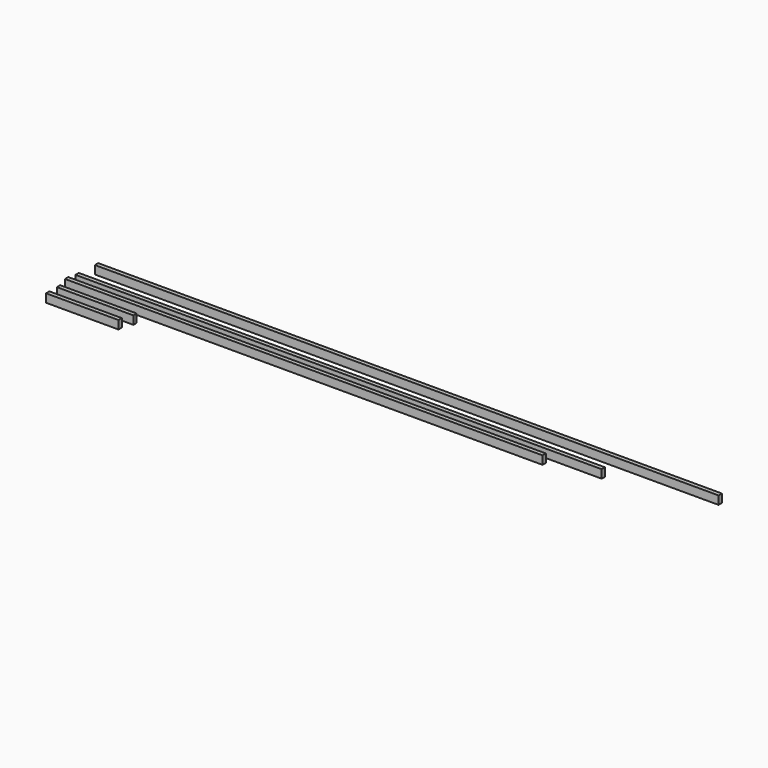
from build123d import *

# Parameters (mm, degrees)
F0_W     = 19.05
F0_H     = 38.1
F1_DEPTH = 349.25
F2_W     = 19.05
F2_H     = 38.1
F3_DEPTH = 2400.3
F4_W     = 19.05
F4_H     = 38.1
F5_DEPTH = 2844.8
F6_W     = 19.05
F6_H     = 38.1
F7_DEPTH = 2178.05
F8_W     = 19.05
F8_H     = 38.1
F9_DEPTH = 330.2


with BuildPart() as f1:
    # F0 (on Right) → F1 (new body)
    with BuildSketch(Plane.YZ):
        Rectangle(F0_W, F0_H)
    extrude(amount=F1_DEPTH)


with BuildPart() as f3:
    # F2 (on Right) → F3 (new body)
    with BuildSketch(Plane.YZ):
        with Locations((106.263376, 6.072903)):
            Rectangle(F2_W, F2_H)
    extrude(amount=F3_DEPTH)


with BuildPart() as f5:
    # F4 (on Right) → F5 (new body)
    with BuildSketch(Plane.YZ):
        with Locations((216.719954, 0.60765)):
            Rectangle(F4_W, F4_H)
    extrude(amount=F5_DEPTH)


with BuildPart() as f7:
    # F6 (on Right) → F7 (new body)
    with BuildSketch(Plane.YZ):
        with Locations((46.31238, 13.886165)):
            Rectangle(F6_W, F6_H)
    extrude(amount=F7_DEPTH)


with BuildPart() as f9:
    # F8 (on Right) → F9 (new body)
    with BuildSketch(Plane.YZ):
        with Locations((-61.117172, 0)):
            Rectangle(F8_W, F8_H)
    extrude(amount=F9_DEPTH)


solid = Compound([f1.part, f3.part, f5.part, f7.part, f9.part])
